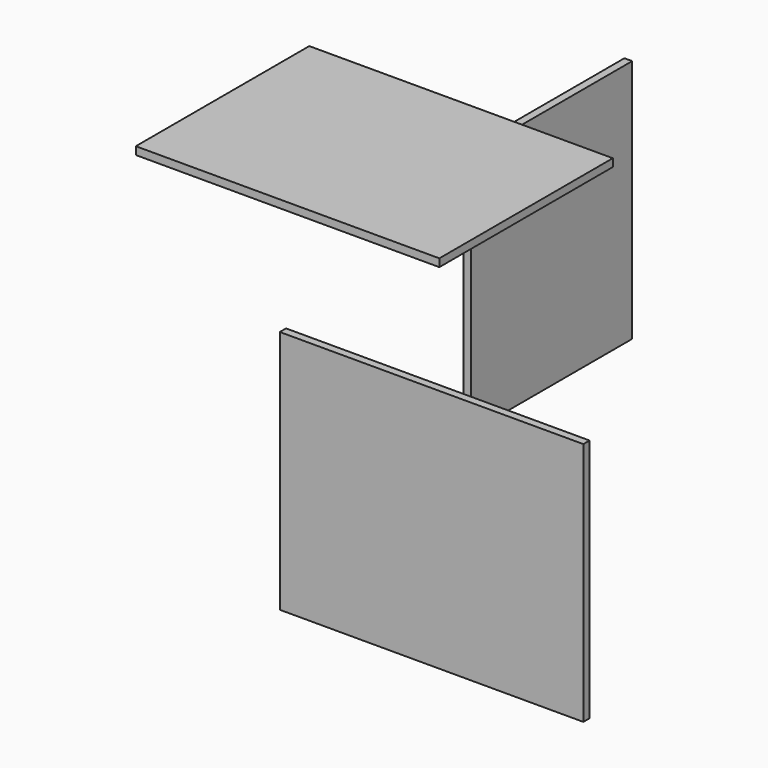
from build123d import *

# Parameters (mm, degrees)
F0_W     = 711.2
F0_H     = 508
F1_DEPTH = 18.25625
F2_W     = 711.2
F2_H     = 573.024
F3_DEPTH = 18.25625
F4_W     = 471.424
F4_H     = 573.024
F5_DEPTH = 18.25625


with BuildPart() as f1:
    # F0 (on Top) → F1 (new body)
    with BuildSketch(Plane.XY):
        with Locations((-14.772897, -16.26513)):
            Rectangle(F0_W, F0_H)
    extrude(amount=F1_DEPTH)


with BuildPart() as f3:
    # F2 (on Front) → F3 (new body)
    with BuildSketch(Plane.XZ):
        with Locations((120.981328, -709.771233)):
            Rectangle(F2_W, F2_H)
    extrude(amount=F3_DEPTH)


with BuildPart() as f5:
    # F4 (on Right) → F5 (new body)
    with BuildSketch(Plane.YZ):
        with Locations((462.030777, -359.833615)):
            Rectangle(F4_W, F4_H)
    extrude(amount=F5_DEPTH)


solid = Compound([f1.part, f3.part, f5.part])
